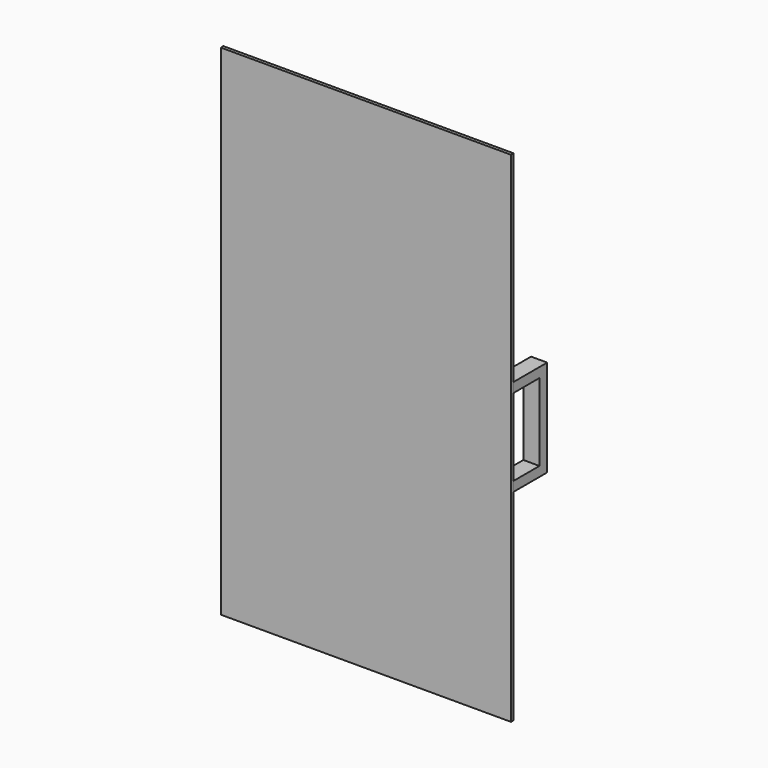
from build123d import *

# Parameters (mm, degrees)
F0_W     = 450
F0_H     = 774
F1_DEPTH = 2.5
F3_DEPTH = 25


with BuildPart() as f1:
    # F0 (on Front) → F1 (new body, symmetric)
    with BuildSketch(Plane.XZ):
        with Locations((-15, 0)):
            Rectangle(F0_W, F0_H)
    extrude(amount=F1_DEPTH, both=True)


with BuildPart() as f3:
    # F2 (on face) → F3 (new body)
    with BuildSketch(Plane.YZ.offset(210)):
        Polygon((2.5, 75), (2.5, 60), (52.5, 60), (52.5, 0), (52.5, -60), (2.5, -60), (2.5, -75), (67.5, -75), (67.5, 0), (67.5, 75), align=None)
    extrude(amount=-F3_DEPTH)


solid = Compound([f1.part, f3.part])
